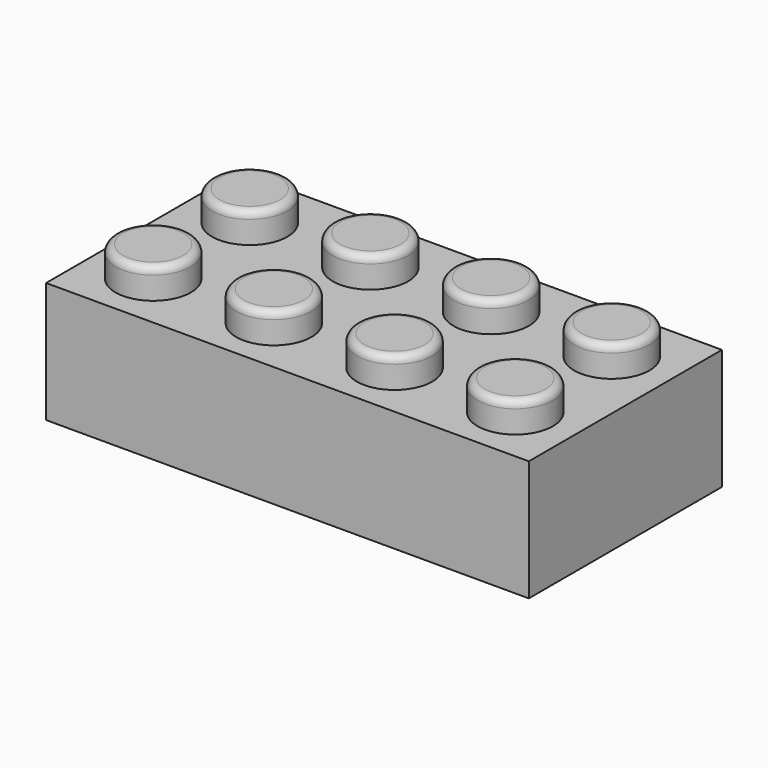
from build123d import *

# Parameters (mm, degrees)
F0_W     = 32
F0_H     = 16
F1_DEPTH = 8
F2_R     = 2.5
F3_DEPTH = 10
F4_R     = 0.5
F5_T     = -1.5


with BuildPart() as f1:
    # F0 (on Top) → F1 (new body)
    with BuildSketch(Plane.XY):
        with Locations((5.4195728153, 19.9750221409)):
            Rectangle(F0_W, F0_H)
    extrude(amount=F1_DEPTH)

    # F2 (on Top) → F3 (join)
    with BuildSketch(Plane.XY):
        with Locations((17.4366342831, 23.8281991333)):
            Circle(F2_R)
        with Locations((9.4368873946, 23.8281991333)):
            Circle(F2_R)
        with Locations((1.4368873946, 23.8281991333)):
            Circle(F2_R)
        with Locations((-6.5631126054, 23.8281991333)):
            Circle(F2_R)
        with Locations((-6.5631126054, 15.8281991333)):
            Circle(F2_R)
        with Locations((1.4368873946, 15.8281991333)):
            Circle(F2_R)
        with Locations((9.4368873946, 15.8281991333)):
            Circle(F2_R)
        with Locations((17.4366342831, 15.8281991333)):
            Circle(F2_R)
    extrude(amount=F3_DEPTH)

    # F4
    f4_edges = [f1.edges().sort_by_distance(p)[0] for p in [
        (-9.063113, 23.828199, 10),
        (-9.063113, 15.828199, 10),
        (-1.063113, 15.828199, 10),
        (-1.063113, 23.828199, 10),
        (6.936887, 23.828199, 10),
        (14.936634, 23.828199, 10),
        (14.936634, 15.828199, 10),
        (6.936887, 15.828199, 10),
    ]]
    fillet(f4_edges, radius=F4_R)

    # F5
    f5_openings = [f1.faces().sort_by_distance(p)[0] for p in [
        (5.419573, 19.975022, 0),
    ]]
    offset(amount=F5_T, openings=f5_openings, kind=Kind.INTERSECTION)


solid = f1.part
